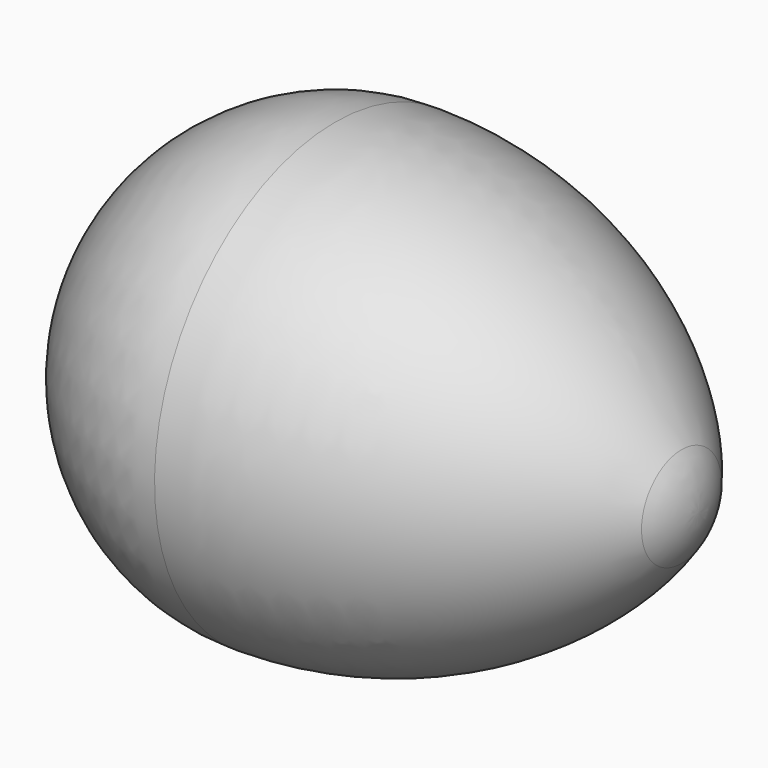
from build123d import *


with BuildPart() as f1:
    # F0 (on Front) → F1 (revolve)
    with BuildSketch(Plane.XZ):
        with BuildLine():
            ThreePointArc((108.690532, 0), (107.431817, 7.89673), (103.780426, 15.010805))
            ThreePointArc((103.780426, 15.010805), (58.179309, 53.724768), (0, 67.63163))
            ThreePointArc((0, 67.63163), (-47.822784, 47.822784), (-67.63163, 0))
            Line((-67.63163, 0), (108.690532, 0))
        make_face()
    revolve(axis=Axis((22.813612, 0, 0), (1, 0, 0)))


solid = f1.part
